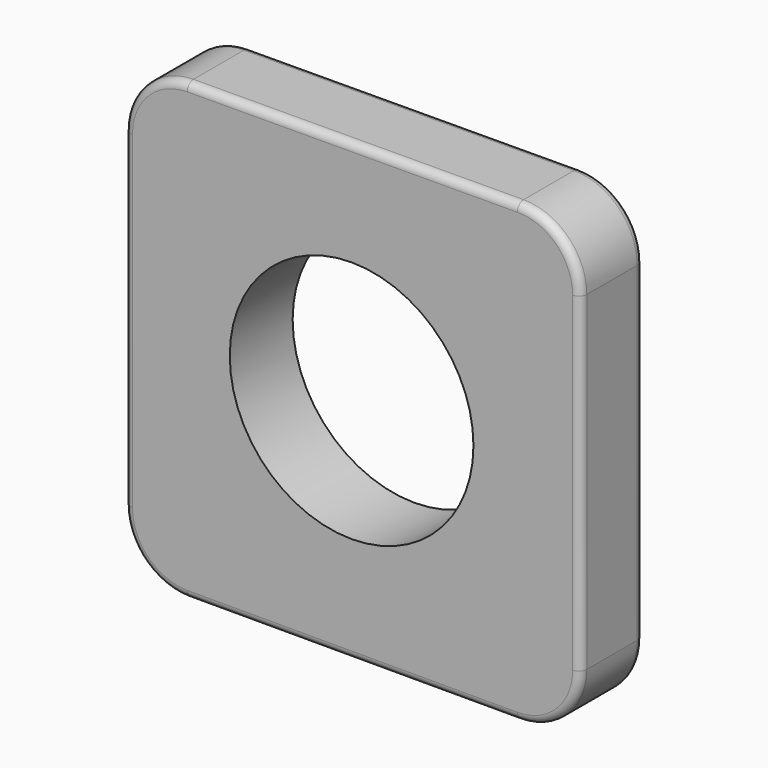
from build123d import *

# Parameters (mm, degrees)
F0_R     = 15.5
F1_DEPTH = 10
F2_R     = 1


with BuildPart() as f1:
    # F0 (on Front) → F1 (new body)
    with BuildSketch(Plane.XZ):
        with BuildLine():
            ThreePointArc((-82.93128, 27.33801), (-88.566483, 24.983088), (-90.897807, 19.33808))
            Line((-90.897807, 19.33808), (-90.897807, -22.486187))
            ThreePointArc((-90.897807, -22.486187), (-88.554661, -28.143041), (-82.897807, -30.486187))
            Line((-82.897807, -30.486187), (-40.897807, -30.486187))
            ThreePointArc((-40.897807, -30.486187), (-35.240953, -28.143041), (-32.897807, -22.486187))
            Line((-32.897807, -22.486187), (-32.897807, 19.513813))
            ThreePointArc((-32.897807, 19.513813), (-35.252799, 25.182489), (-40.93128, 27.513743))
            Line((-40.93128, 27.513743), (-82.93128, 27.33801))
        make_face()
        with Locations((-62.019284, -1.453222)):
            Circle(F0_R, mode=Mode.SUBTRACT)
    extrude(amount=F1_DEPTH)

    # F2
    f2_edges = [f1.edges().sort_by_distance(p)[0] for p in [
        (-88.554661, -10, -28.143041),
        (-35.240953, 0, -28.143041),
        (-61.897807, 0, -30.486187),
        (-90.897807, 0, -1.574053),
        (-88.554661, 0, -28.143041),
    ]]
    fillet(f2_edges, radius=F2_R)


solid = f1.part
